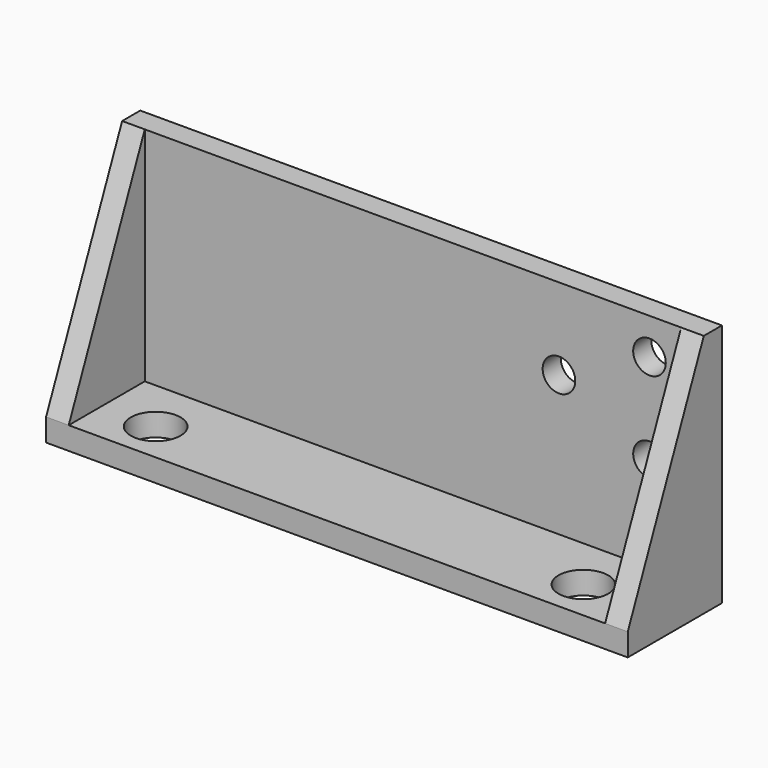
from build123d import *

# Parameters (mm, degrees)
F0_R          = 2.5
F1_DEPTH      = 27
F2_T          = -2.5
F4_DEPTH      = 2.501
F4_DEPTH_BACK = 61.745
F6_D          = 5.5
F7_D          = 3.6


with BuildPart() as f1:
    # F0 (on Top) → F1 (new body)
    with BuildSketch(Plane.XY):
        Polygon((-77.141795, 26.4142), (-45.019795, 26.4142), (-12.897795, 26.4142), (-12.897795, 39.4142), (-77.141795, 39.4142), align=None)
        with Locations((-68.641795, 30.9142)):
            Circle(F0_R, mode=Mode.SUBTRACT)
        with Locations((-21.397795, 30.9142)):
            Circle(F0_R, mode=Mode.SUBTRACT)
        with Locations((-68.641795, 30.9142)):
            Circle(F0_R)
        with Locations((-21.397795, 30.9142)):
            Circle(F0_R)
    extrude(amount=F1_DEPTH)

    # F2
    f2_openings = [f1.faces().sort_by_distance(p)[0] for p in [
        (-45.019795, 32.9142, 27),
        (-45.019795, 26.4142, 13.5),
    ]]
    offset(amount=F2_T, openings=f2_openings)

    # F3 (on face) → F4 (cut, two sides)
    with BuildSketch(Plane.YZ.offset(-74.641795)) as f4_sk:
        Polygon((26.4142, 27), (26.4142, 2.5), (36.9142, 27), align=None)
    extrude(amount=-F4_DEPTH, mode=Mode.SUBTRACT)
    extrude(f4_sk.sketch, amount=F4_DEPTH_BACK, mode=Mode.SUBTRACT)

    # F6 (through all)
    with Locations(Plane(origin=(0, 0, 0), x_dir=(1, 0, 0), z_dir=(0, 0, -1))):
        with Locations((-68.641795, -30.9142), (-21.397795, -30.9142)):
            Hole(F6_D / 2)

    # F7 (through all)
    with Locations(Plane(origin=(0, 39.4142, 0), x_dir=(-1, 0, 0), z_dir=(0, 1, 0))):
        with Locations((18.897795, 13), (18.897795, 23), (28.897795, 18)):
            Hole(F7_D / 2)


solid = f1.part
